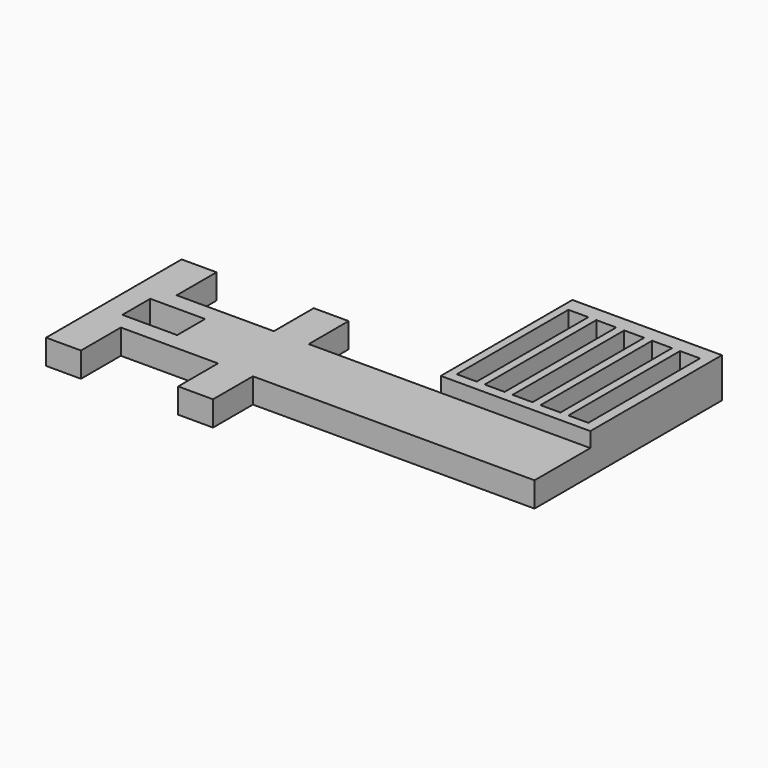
from build123d import *

# Parameters (mm, degrees)
F0_W     = 3.5
F0_H     = 5
F0_W_2   = 5.5
F0_H_2   = 3.5
F0_W_3   = 15
F0_H_3   = 7
F1_DEPTH = 2.5
F0_H_4   = 16.5
F0_W_4   = 2
F0_H_5   = 14
F2_DEPTH = 4


with BuildPart() as f1:
    # F0 (on Top) → F1 (new body)
    with BuildSketch(Plane.XY):
        with Locations((0, 6)):
            Rectangle(F0_W, F0_H)
        Polygon((15, -3.5), (15, 3.5), (1.75, 3.5), (-1.75, 3.5), (-11.5, 3.5), (-15, 3.5), (-15, -3.5), (-11.5, -3.5), (-1.75, -3.5), (1.75, -3.5), align=None)
        with Locations((-10, 0)):
            Rectangle(F0_W_2, F0_H_2, mode=Mode.SUBTRACT)
        with Locations((0, -6)):
            Rectangle(F0_W, F0_H)
        with Locations((-13.25, 6)):
            Rectangle(F0_W, F0_H)
        with Locations((-13.25, -6)):
            Rectangle(F0_W, F0_H)
        Polygon((15, -3.5), (15, 3.5), (1.75, 3.5), (-1.75, 3.5), (-11.5, 3.5), (-15, 3.5), (-15, -3.5), (-11.5, -3.5), (-1.75, -3.5), (1.75, -3.5), align=None)
        with Locations((-10, 0)):
            Rectangle(F0_W_2, F0_H_2, mode=Mode.SUBTRACT)
        with Locations((22.5, 0)):
            Rectangle(F0_W_3, F0_H_3)
        with Locations((22.5, 0)):
            Rectangle(F0_W_3, F0_H_3)
    extrude(amount=F1_DEPTH)

    # F0 (on Top) → F2 (join)
    with BuildSketch(Plane.XY):
        with Locations((22.5, 11.75)):
            Rectangle(F0_W_3, F0_H_4)
        with Locations((16.8, 11.5)):
            Rectangle(F0_W_4, F0_H_5, mode=Mode.SUBTRACT)
        with Locations((19.6, 11.5)):
            Rectangle(F0_W_4, F0_H_5, mode=Mode.SUBTRACT)
        with Locations((22.4, 11.5)):
            Rectangle(F0_W_4, F0_H_5, mode=Mode.SUBTRACT)
        with Locations((25.2, 11.5)):
            Rectangle(F0_W_4, F0_H_5, mode=Mode.SUBTRACT)
        with Locations((28, 11.5)):
            Rectangle(F0_W_4, F0_H_5, mode=Mode.SUBTRACT)
    extrude(amount=F2_DEPTH)


solid = f1.part
